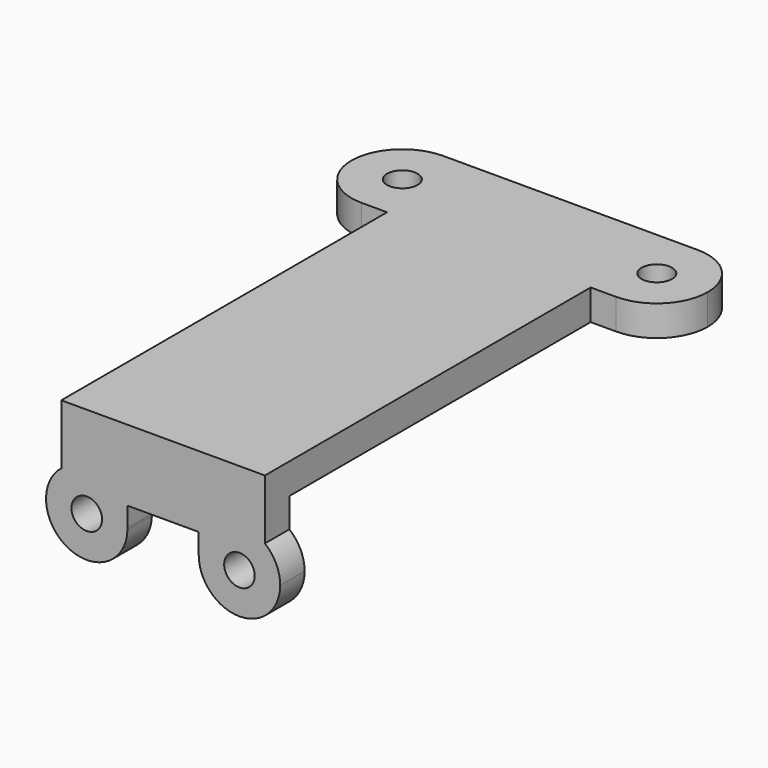
from build123d import *

# Parameters (mm, degrees)
F0_R     = 1.5
F1_DEPTH = 3
F2_W     = 20
F2_H     = 40
F2_R     = 1.5
F2_H_2   = 10
F3_DEPTH = 3


with BuildPart() as f1:
    # F0 (on Front) → F1 (new body)
    with BuildSketch(Plane.XZ):
        with BuildLine():
            Line((10, 2), (-10, 2))
            Line((-10, 2), (-10, -0.8775010008))
            ThreePointArc((-10, -0.8775010008), (-6.7601527307, -0.0690171689), (-4.0358983849, -2))
            Line((-4.0358983849, -2), (-3.5015512196, -2))
            Line((-3.5015512196, -2), (3.5, -2))
            Line((3.5, -2), (4.0358983849, -2))
            ThreePointArc((4.0358983849, -2), (6.7601527307, -0.0690171689), (10, -0.8775010008))
            Line((10, -0.8775010008), (10, 2))
        make_face()
        with BuildLine():
            ThreePointArc((-4.0358983849, -2), (-6.7601527307, -0.0690171689), (-10, -0.8775010008))
            Line((-10, -0.8775010008), (-10, -2))
            Line((-10, -2), (-4.0358983849, -2))
        make_face()
        with BuildLine():
            Line((-10, -2), (-10, -0.8775010008))
            ThreePointArc((-10, -0.8775010008), (-9.282089766, -7.5810830856), (-3.5015512196, -4.1113882884))
            Line((-3.5015512196, -4.1113882884), (-3.5015512196, -3.8886117116))
            ThreePointArc((-3.5015512196, -3.8886117116), (-3.6510874067, -2.9110225671), (-4.0358983849, -2))
            Line((-4.0358983849, -2), (-10, -2))
        make_face()
        with Locations((-7.5, -4)):
            Circle(F0_R, mode=Mode.SUBTRACT)
        with BuildLine():
            ThreePointArc((11.5, -4), (11.1055512755, -2.2679491924), (10, -0.8775010008))
            Line((10, -0.8775010008), (10, -2))
            Line((10, -2), (4.0358983849, -2))
            ThreePointArc((4.0358983849, -2), (3.6362966948, -2.9647238196), (3.5, -4))
            ThreePointArc((3.5, -4), (7.5, -8), (11.5, -4))
        make_face()
        with Locations((7.5, -4)):
            Circle(F0_R, mode=Mode.SUBTRACT)
        with BuildLine():
            Line((10, -2), (10, -0.8775010008))
            ThreePointArc((10, -0.8775010008), (6.7601527307, -0.0690171689), (4.0358983849, -2))
            Line((4.0358983849, -2), (10, -2))
        make_face()
        with BuildLine():
            Line((-3.5015512196, -2), (-4.0358983849, -2))
            ThreePointArc((-4.0358983849, -2), (-3.6510874067, -2.9110225671), (-3.5015512196, -3.8886117116))
            Line((-3.5015512196, -3.8886117116), (-3.5015512196, -2))
        make_face()
        with BuildLine():
            Line((-3.5015512196, -3.8886117116), (-3.5015512196, -4.1113882884))
            ThreePointArc((-3.5015512196, -4.1113882884), (-3.5003878237, -4.0556995446), (-3.5, -4))
            ThreePointArc((-3.5, -4), (-3.5003878237, -3.9443004554), (-3.5015512196, -3.8886117116))
        make_face()
        with BuildLine():
            ThreePointArc((3.5, -4), (3.6362966948, -2.9647238196), (4.0358983849, -2))
            Line((4.0358983849, -2), (3.5, -2))
            Line((3.5, -2), (3.5, -4))
        make_face()
    extrude(amount=F1_DEPTH)

    # F2 (on face) → F3 (join)
    with BuildSketch(Plane.XY.offset(2)):
        with Locations((0, 17)):
            Rectangle(F2_W, F2_H)
        with BuildLine():
            Line((-12.5, 37), (-10, 37))
            Line((-10, 37), (-10, 47))
            Line((-10, 47), (-12.5, 47))
            ThreePointArc((-12.5, 47), (-16.0355339059, 45.5355339059), (-17.5, 42))
            ThreePointArc((-17.5, 42), (-16.0355339059, 38.4644660941), (-12.5, 37))
        make_face()
        with Locations((-12.5, 42)):
            Circle(F2_R, mode=Mode.SUBTRACT)
        with Locations((0, 42)):
            Rectangle(F2_W, F2_H_2)
        with BuildLine():
            Line((10, 47), (10, 37))
            Line((10, 37), (12.5, 37))
            ThreePointArc((12.5, 37), (16.0355339059, 38.4644660941), (17.5, 42))
            ThreePointArc((17.5, 42), (16.0355339059, 45.5355339059), (12.5, 47))
            Line((12.5, 47), (10, 47))
        make_face()
        with Locations((12.5, 42)):
            Circle(F2_R, mode=Mode.SUBTRACT)
    extrude(amount=F3_DEPTH)


solid = f1.part
